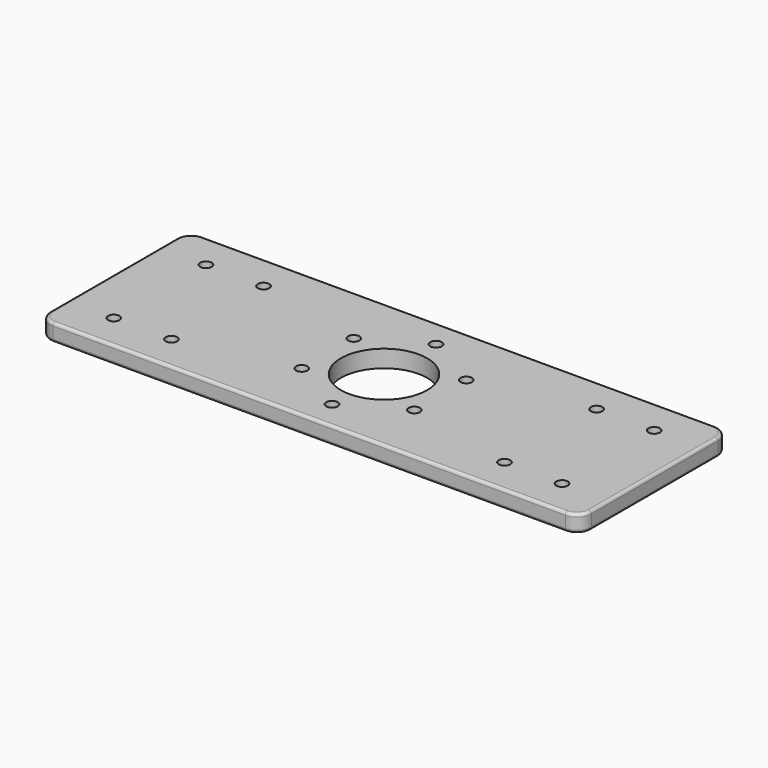
from build123d import *

# Parameters (mm, degrees)
F0_R     = 2
F0_R_2   = 15
F1_DEPTH = 6
F2_R     = 1


with BuildPart() as f1:
    # F0 (on Top) → F1 (new body)
    with BuildSketch(Plane.XY):
        with BuildLine():
            Line((89, 32.5), (-89, 32.5))
            ThreePointArc((-89, 32.5), (-92.535534, 31.035534), (-94, 27.5))
            Line((-94, 27.5), (-94, -27.5))
            ThreePointArc((-94, -27.5), (-92.535534, -31.035534), (-89, -32.5))
            Line((-89, -32.5), (89, -32.5))
            ThreePointArc((89, -32.5), (92.535534, -31.035534), (94, -27.5))
            Line((94, -27.5), (94, 27.5))
            ThreePointArc((94, 27.5), (92.535534, 31.035534), (89, 32.5))
        make_face()
        with Locations((-77.85, -20)):
            Circle(F0_R, mode=Mode.SUBTRACT)
        with Locations((-57.85, -20)):
            Circle(F0_R, mode=Mode.SUBTRACT)
        with Locations((-19.55542, -11.290327)):
            Circle(F0_R, mode=Mode.SUBTRACT)
        with Locations((0, -22.580653)):
            Circle(F0_R, mode=Mode.SUBTRACT)
        with Locations((57.85, -20)):
            Circle(F0_R, mode=Mode.SUBTRACT)
        with Locations((77.85, -20)):
            Circle(F0_R, mode=Mode.SUBTRACT)
        with Locations((19.55542, -11.290327)):
            Circle(F0_R, mode=Mode.SUBTRACT)
        with Locations((-19.55542, 11.290327)):
            Circle(F0_R, mode=Mode.SUBTRACT)
        with Locations((-77.85, 20)):
            Circle(F0_R, mode=Mode.SUBTRACT)
        with Locations((-57.85, 20)):
            Circle(F0_R, mode=Mode.SUBTRACT)
        Circle(F0_R_2, mode=Mode.SUBTRACT)
        with Locations((19.55542, 11.290327)):
            Circle(F0_R, mode=Mode.SUBTRACT)
        with Locations((0, 22.580653)):
            Circle(F0_R, mode=Mode.SUBTRACT)
        with Locations((57.85, 20)):
            Circle(F0_R, mode=Mode.SUBTRACT)
        with Locations((77.85, 20)):
            Circle(F0_R, mode=Mode.SUBTRACT)
    extrude(amount=F1_DEPTH)

    # F2
    f2_edges = [f1.edges().sort_by_distance(p)[0] for p in [
        (-94, 0, 6),
        (-89, 32.5, 3),
        (-94, 27.5, 3),
        (-92.535534, 31.035534, 0),
        (-92.535534, 31.035534, 6),
        (-94, -27.5, 3),
        (-94, 0, 0),
        (-89, -32.5, 3),
        (-92.535534, -31.035534, 0),
        (-92.535534, -31.035534, 6),
        (0, -32.5, 6),
        (0, -32.5, 0),
        (89, -32.5, 3),
        (94, -27.5, 3),
        (92.535534, -31.035534, 0),
        (92.535534, -31.035534, 6),
        (94, 27.5, 3),
        (94, 0, 0),
        (94, 0, 6),
        (89, 32.5, 3),
        (0, 32.5, 0),
        (0, 32.5, 6),
        (92.535534, 31.035534, 0),
        (92.535534, 31.035534, 6),
    ]]
    fillet(f2_edges, radius=F2_R)


solid = f1.part
